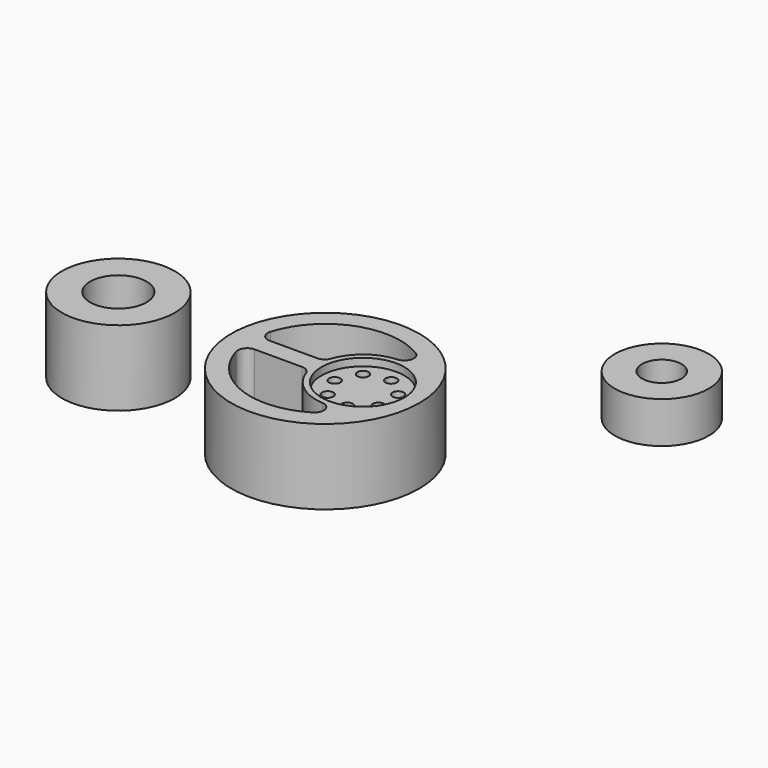
from build123d import *

# Parameters (mm, degrees)
F0_R          = 50
F2_DEPTH      = 20
F3_DEPTH      = 44.5
F5_R          = 5
F6_R          = 22
F7_DEPTH      = 4
F7_DEPTH_BACK = -10
F10_R         = 3
F11_DEPTH     = 60
F12_COUNT     = 7
F14_R         = 30
F14_R_2       = 15
F15_DEPTH     = 20
F14_R_3       = 25
F14_R_4       = 10.5
F16_DEPTH     = 11


with BuildPart() as f2:
    # F0 (on Top) → F2 (new body, symmetric)
    with BuildSketch(Plane.XY):
        with Locations((-20, 0)):
            Circle(F0_R)
    extrude(amount=F2_DEPTH, both=True)


with BuildPart() as f3:
    # F1 (on Top) → F3 (new body, symmetric)
    with BuildSketch(Plane.XY):
        with BuildLine():
            Line((-24.494897, -5), (-59.68627, -5))
            ThreePointArc((-59.68627, -5), (-28.170536, -39.156639), (14.375, -20.453835))
            ThreePointArc((14.375, -20.453835), (-9.236251, -23.231265), (-24.494897, -5))
        make_face()
        with BuildLine():
            ThreePointArc((14.375, 20.453835), (-28.170536, 39.156639), (-59.68627, 5))
            Line((-59.68627, 5), (-24.494897, 5))
            ThreePointArc((-24.494897, 5), (-9.236251, 23.231265), (14.375, 20.453835))
        make_face()
    extrude(amount=F3_DEPTH, both=True)


with BuildPart() as f2_1:
    add(f2.part)

    # F4: cut F3
    add(f3.part, mode=Mode.SUBTRACT)

    # F5
    f5_edges = [f2_1.edges().sort_by_distance(p)[0] for p in [
        (14.375, 20.453835, 0),
        (-59.68627, 5, 0),
        (-24.494897, 5, 0),
        (-24.494897, -5, 0),
        (-59.68627, -5, 0),
        (14.375, -20.453835, 0),
    ]]
    fillet(f5_edges, radius=F5_R)


with BuildPart() as f7:
    # F6 (on face) → F7 (new body, two sides)
    with BuildSketch(Plane.XY.offset(20)) as f7_sk:
        Circle(F6_R)
    extrude(amount=-F7_DEPTH)
    extrude(f7_sk.sketch, amount=-F7_DEPTH_BACK)


with BuildPart() as f8_1:
    # F8: instance of F7
    add(f7.part.mirror(Plane.XY))


with BuildPart() as f2_2:
    add(f2_1.part)

    # F9: cut F7, F8_1
    add(f7.part, mode=Mode.SUBTRACT)
    add(f8_1.part, mode=Mode.SUBTRACT)


with BuildPart() as f11:
    # F10 (on face) → F11 (new body)
    with BuildSketch(Plane.XY.offset(20)):
        with Locations((-15, 0)):
            Circle(F10_R)
    extrude(amount=-F11_DEPTH)


with BuildPart() as f12_1:
    # F12: instance of F11
    add(f11.part.rotate(Axis((0, 0, 20), (0, 0, 1)), 1 * 360 / F12_COUNT))


with BuildPart() as f12_2:
    # F12: instance of F11
    add(f11.part.rotate(Axis((0, 0, 20), (0, 0, 1)), 2 * 360 / F12_COUNT))


with BuildPart() as f12_3:
    # F12: instance of F11
    add(f11.part.rotate(Axis((0, 0, 20), (0, 0, 1)), 3 * 360 / F12_COUNT))


with BuildPart() as f12_4:
    # F12: instance of F11
    add(f11.part.rotate(Axis((0, 0, 20), (0, 0, 1)), 4 * 360 / F12_COUNT))


with BuildPart() as f12_5:
    # F12: instance of F11
    add(f11.part.rotate(Axis((0, 0, 20), (0, 0, 1)), 5 * 360 / F12_COUNT))


with BuildPart() as f12_6:
    # F12: instance of F11
    add(f11.part.rotate(Axis((0, 0, 20), (0, 0, 1)), 6 * 360 / F12_COUNT))


with BuildPart() as f2_3:
    add(f2_2.part)

    # F13: cut F12_5, F12_3, F12_4, F11, F12_6, F12_1, F12_2
    add(f12_5.part, mode=Mode.SUBTRACT)
    add(f12_3.part, mode=Mode.SUBTRACT)
    add(f12_4.part, mode=Mode.SUBTRACT)
    add(f11.part, mode=Mode.SUBTRACT)
    add(f12_6.part, mode=Mode.SUBTRACT)
    add(f12_1.part, mode=Mode.SUBTRACT)
    add(f12_2.part, mode=Mode.SUBTRACT)


with BuildPart() as f15:
    # F14 (on Top) → F15 (new body, symmetric)
    with BuildSketch(Plane.XY):
        with Locations((-130, 0)):
            Circle(F14_R)
        with Locations((-130, 0)):
            Circle(F14_R_2, mode=Mode.SUBTRACT)
    extrude(amount=F15_DEPTH, both=True)


with BuildPart() as f16:
    # F14 (on Top) → F16 (new body, symmetric)
    with BuildSketch(Plane.XY):
        with Locations((79.92369, 98.697537)):
            Circle(F14_R_3)
        with Locations((79.92369, 98.697537)):
            Circle(F14_R_4, mode=Mode.SUBTRACT)
    extrude(amount=F16_DEPTH, both=True)


solid = Compound([f2_3.part, f15.part, f16.part])
